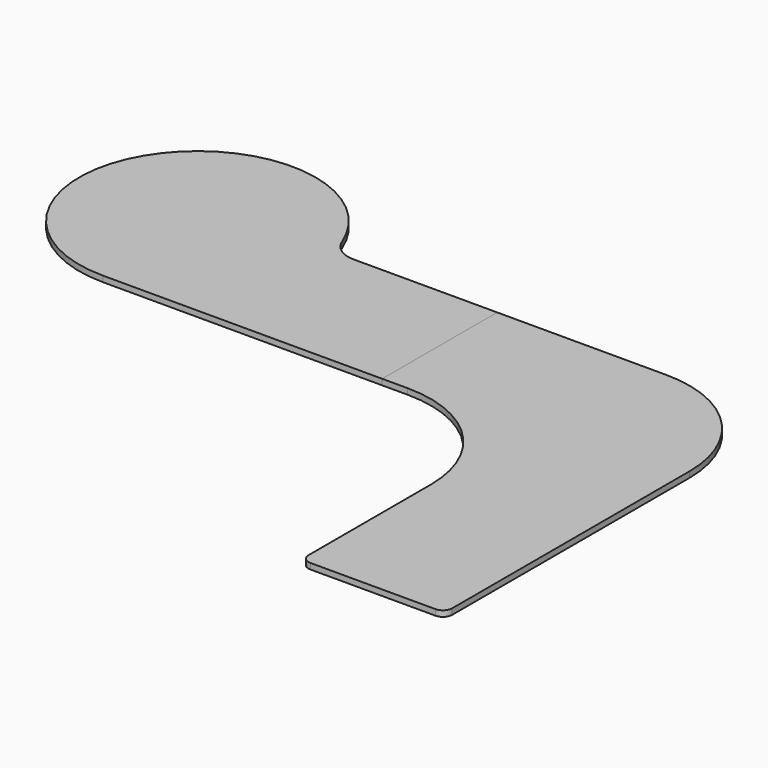
from build123d import *

# Parameters (mm, degrees)
F2_DEPTH = 25


with BuildPart() as f2:
    # F0 (on Top) → F2 (new body)
    with BuildSketch(Plane.XY):
        with BuildLine():
            ThreePointArc((-128.0717151949, -1076.7640182788), (-116.3559864424, -1105.0482895263), (-88.0717151949, -1116.7640182788))
            Line((-88.0717151949, -1116.7640182788), (451.9282848051, -1116.7640182788))
            ThreePointArc((451.9282848051, -1116.7640182788), (480.2125560525, -1105.0482895263), (491.9282848051, -1076.7640182788))
            Line((491.9282848051, -1076.7640182788), (491.9282848051, 203.2359817212))
            ThreePointArc((491.9282848051, 203.2359817212), (345.4816753983, 556.7893723144), (-8.0717151949, 703.2359817212))
            Line((-8.0717151949, 703.2359817212), (-738.0717151949, 703.2359817212))
            Line((-738.0717151949, 703.2359817212), (-738.0717151949, 83.2359817212))
            Line((-738.0717151949, 83.2359817212), (-628.0717151949, 83.2359817212))
            ThreePointArc((-628.0717151949, 83.2359817212), (-274.5183246017, -63.2106276856), (-128.0717151949, -416.7640182788))
            Line((-128.0717151949, -416.7640182788), (-128.0717151949, -1076.7640182788))
        make_face()
    extrude(amount=F2_DEPTH)


with BuildPart() as f2b:
    # F1 (on Top) → F2, piece 2 (new body)
    with BuildSketch(Plane.XY):
        with BuildLine():
            ThreePointArc((-2441.0676991145, 703.2359817212), (-2340.6896222364, 273.8615932677), (-1943.0717151949, 83.2359817212))
            ThreePointArc((-1943.0717151949, 83.2359817212), (-1582.4472567898, 232.611523316), (-1433.0717151949, 593.2359817212))
            ThreePointArc((-1433.0717151949, 593.2359817212), (-1436.081600992, 648.5625042986), (-1445.0757312754, 703.2359817212))
            Line((-1445.0757312754, 703.2359817212), (-2441.0676991145, 703.2359817212))
        make_face()
        with BuildLine():
            ThreePointArc((-1467.9868797851, 778.6932521735), (-1982.5011470643, 1101.7095010931), (-2441.0676991145, 703.2359817212))
            Line((-2441.0676991145, 703.2359817212), (-1445.0757312754, 703.2359817212))
            ThreePointArc((-1445.0757312754, 703.2359817212), (-1455.0706699576, 741.408110839), (-1467.9868797851, 778.6932521735))
        make_face()
        with BuildLine():
            Line((-1445.0757312754, 703.2359817212), (-1357.5280660465, 703.2359817212))
            ThreePointArc((-1357.5280660465, 703.2359817212), (-1424.4140683128, 723.9010034339), (-1467.9868797851, 778.6932521735))
            ThreePointArc((-1467.9868797851, 778.6932521735), (-1455.0706699576, 741.408110839), (-1445.0757312754, 703.2359817212))
        make_face()
        with BuildLine():
            Line((-1943.0717151949, 83.2359817212), (-738.0717151949, 83.2359817212))
            Line((-738.0717151949, 83.2359817212), (-738.0717151949, 703.2359817212))
            Line((-738.0717151949, 703.2359817212), (-1357.5280660465, 703.2359817212))
            Line((-1357.5280660465, 703.2359817212), (-1445.0757312754, 703.2359817212))
            ThreePointArc((-1445.0757312754, 703.2359817212), (-1436.081600992, 648.5625042986), (-1433.0717151949, 593.2359817212))
            ThreePointArc((-1433.0717151949, 593.2359817212), (-1582.4472567898, 232.611523316), (-1943.0717151949, 83.2359817212))
        make_face()
    extrude(amount=F2_DEPTH)


solid = Compound([f2.part, f2b.part])
